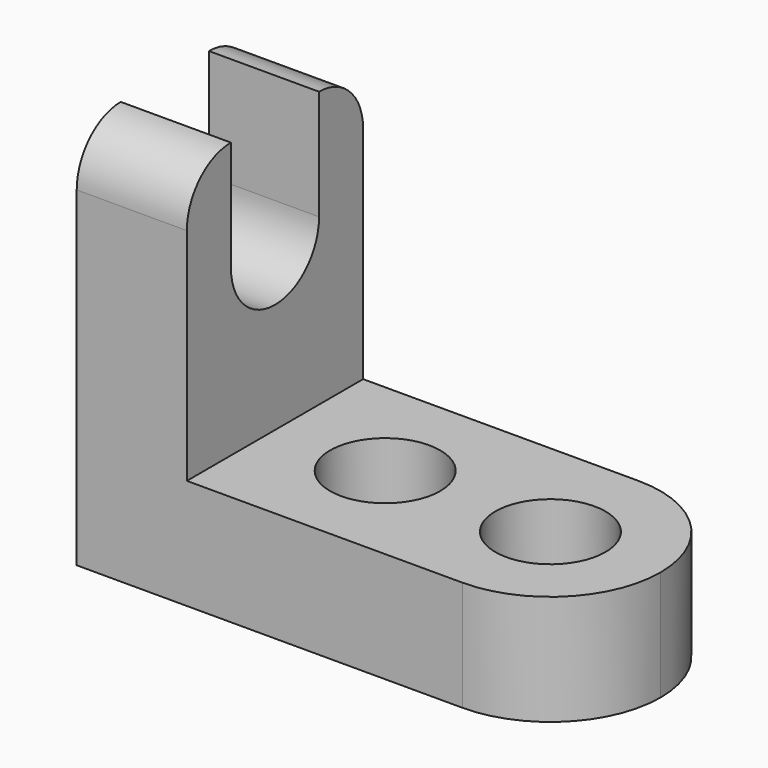
from build123d import *

# Parameters (mm, degrees)
F0_W     = 57.15
F0_H     = 44.45
F1_DEPTH = 25.4
F2_W     = 44.45
F2_H     = 31.75
F3_DEPTH = 25.4
F4_R     = 6.35
F5_DEPTH = 25.4
F7_DEPTH = 25.4


with BuildPart() as f1:
    # F0 (on Front) → F1 (new body)
    with BuildSketch(Plane.XZ):
        with Locations((-37.359422, 22.225)):
            Rectangle(F0_W, F0_H)
    extrude(amount=F1_DEPTH)

    # F2 (on face) → F3 (cut)
    with BuildSketch(Plane.XZ.offset(25.4)):
        with Locations((-31.009422, 28.575)):
            Rectangle(F2_W, F2_H)
    extrude(amount=-F3_DEPTH, mode=Mode.SUBTRACT)

    # F4 (on face) → F5 (cut)
    with BuildSketch(Plane.XY.offset(12.7)):
        with Locations((-21.484422, -12.7)):
            Circle(F4_R)
        with Locations((-40.534422, -12.7)):
            Circle(F4_R)
        with BuildLine():
            ThreePointArc((-8.784422, -12.7), (-12.504166, -21.680256), (-21.484422, -25.4))
            Line((-21.484422, -25.4), (-8.784422, -25.4))
            Line((-8.784422, -25.4), (-8.784422, -12.7))
        make_face()
        with BuildLine():
            ThreePointArc((-21.484422, 0), (-12.504166, -3.719744), (-8.784422, -12.7))
            Line((-8.784422, -12.7), (-8.784422, 0))
            Line((-8.784422, 0), (-21.484422, 0))
        make_face()
    extrude(amount=-F5_DEPTH, mode=Mode.SUBTRACT)

    # F6 (on face) → F7 (cut)
    with BuildSketch(Plane.YZ.offset(-53.234422)):
        with BuildLine():
            ThreePointArc((-25.4, 38.1), (-23.540128, 42.590128), (-19.05, 44.45))
            Line((-19.05, 44.45), (-25.4, 44.45))
            Line((-25.4, 44.45), (-25.4, 38.1))
        make_face()
        with BuildLine():
            ThreePointArc((-19.05, 31.75), (-12.7, 38.1), (-6.35, 31.75))
            Line((-6.35, 31.75), (-6.35, 44.45))
            Line((-6.35, 44.45), (-19.05, 44.45))
            Line((-19.05, 44.45), (-19.05, 31.75))
        make_face()
        with BuildLine():
            ThreePointArc((-19.05, 31.75), (-12.7, 25.4), (-6.35, 31.75))
            ThreePointArc((-6.35, 31.75), (-12.7, 38.1), (-19.05, 31.75))
        make_face()
        with BuildLine():
            Line((0, 44.45), (-6.35, 44.45))
            ThreePointArc((-6.35, 44.45), (-1.859872, 42.590128), (0, 38.1))
            Line((0, 38.1), (0, 44.45))
        make_face()
    extrude(amount=-F7_DEPTH, mode=Mode.SUBTRACT)


solid = f1.part
